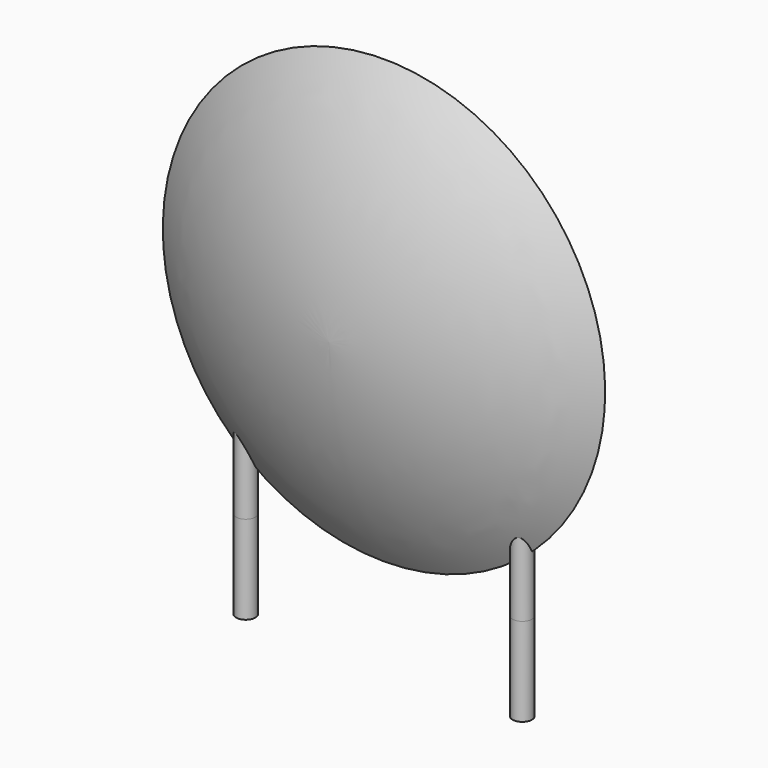
from build123d import *

# Parameters (mm, degrees)
SKETCH001_R       = 0.35
PAD001_DEPTH      = 3.2
PAD001_DEPTH_BACK = -3.2
SKETCH002_R       = 0.35
SKETCH003_R       = 0.35
SKETCH004_R       = 0.35
SKETCH005_R       = 0.35


with BuildPart() as pad001:
    # Sketch001 → Pad001 (new body, two sides)
    with BuildSketch(Plane.XY) as pad001_sk:
        Circle(SKETCH001_R)
        with Locations((10, 0)):
            Circle(SKETCH001_R)
    extrude(amount=-PAD001_DEPTH)
    extrude(pad001_sk.sketch, amount=-PAD001_DEPTH_BACK)


with BuildPart() as revolution:
    # Sketch → Revolution (revolve)
    with BuildSketch(Plane.YZ.offset(5)):
        with BuildLine():
            Line((-2.5, 8.1), (2.5, 8.1))
            ThreePointArc((0, 0.1), (1.817073, 3.92279), (2.5, 8.1))
            ThreePointArc((-2.5, 8.1), (-1.817073, 3.92279), (0, 0.1))
        make_face()
    revolve(axis=Axis((5, -3.32079, 8.1), (0, 1, 0)))


with BuildPart() as loft_body:
    # Sketch002 → Loft section 0
    with BuildSketch(Plane.XY.offset(8)):
        with Locations((-1.4, 0)):
            Circle(SKETCH002_R)
    # Sketch003 → Loft section 1
    with BuildSketch(Plane.XY.offset(3.2)):
        Circle(SKETCH003_R)
    loft()


with BuildPart() as loft001:
    # Sketch004 → Loft001 section 0
    with BuildSketch(Plane.XY.offset(3.2)):
        with Locations((10, 0)):
            Circle(SKETCH004_R)
    # Sketch005 → Loft001 section 1
    with BuildSketch(Plane.XY.offset(8)):
        with Locations((11.4, 0)):
            Circle(SKETCH005_R)
    loft()


solid = Compound([pad001.part, revolution.part, loft_body.part, loft001.part])
